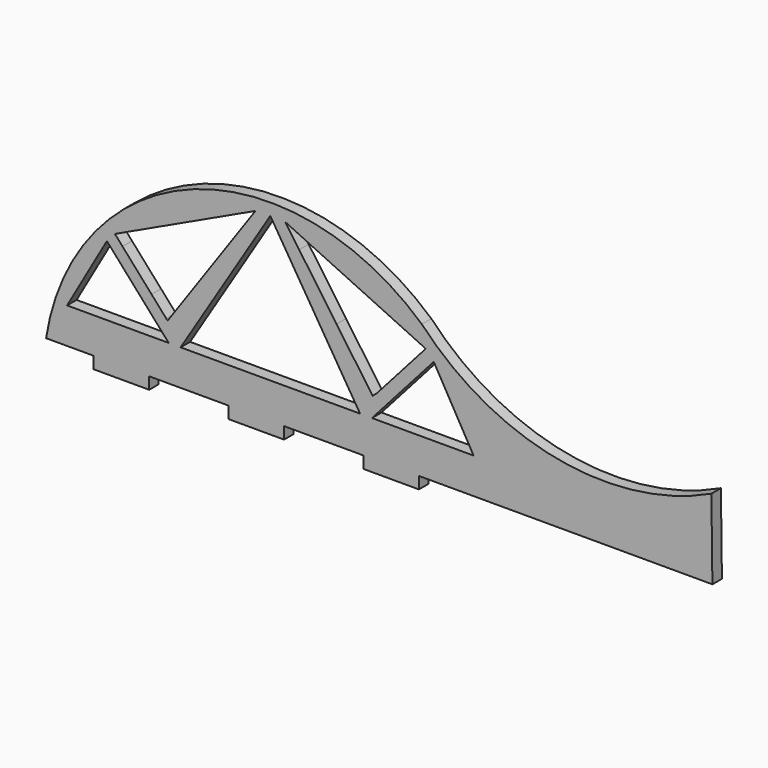
from build123d import *

# Parameters (mm, degrees)
F1_DEPTH = 19.05
F3_DEPTH = 25.4
F4_W     = 88.9
F4_H     = 19.05
F5_DEPTH = 19.05


with BuildPart() as f1:
    # F0 (on Front) → F1 (new body)
    with BuildSketch(Plane.XZ):
        with BuildLine():
            Line((754.452639, -127), (1219.750957, -127))
            Line((1219.750957, -127), (1218.132401, 0.307838))
            ThreePointArc((1218.132401, 0.307838), (971.957472, -30.969021), (754.452639, 88.496394))
            Line((754.452639, 88.496394), (754.452639, -127))
        make_face()
        with BuildLine():
            Line((152.950957, -127), (754.452639, -127))
            Line((754.452639, -127), (754.452639, 88.496394))
            ThreePointArc((754.452639, 88.496394), (389.486399, 159.988648), (152.950957, -127))
        make_face()
    extrude(amount=F1_DEPTH)

    # F2 (on face) → F3 (cut)
    with BuildSketch(Plane.XZ.offset(19.05)):
        Polygon((349.289218, -69.85), (250.3214, 41.61797), (186.588, -69.85), (250.3214, -69.85), (313.393829, -69.85), (314.054799, -69.85), align=None)
        Polygon((398.772179, 33.915376), (456.774034, 116.646986), (488.145278, 161.393719), (263.171888, 55.837033), (275.35156, 42.119006), (321.764452, -10.156076), (345.300821, -36.665212), (347.074358, -38.662755), (347.578352, -39.105525), (349.289218, -36.665212), align=None)
        Polygon((511.990437, 162.220746), (368.339218, -69.85), (655.641655, -69.85), align=None)
        Polygon((535.835596, 161.393719), (558.164751, 129.544273), (618.046186, 44.131702), (675.804029, -38.251859), (682.479221, -32.387854), (696.510871, -16.584994), (738.856518, 31.105928), (760.812477, 55.83338), align=None)
        Polygon((837.392874, -69.85), (773.662731, 41.614158), (674.691655, -69.85), align=None)
    extrude(amount=-F3_DEPTH, mode=Mode.SUBTRACT)

    # F4 (on face) → F5 (join)
    with BuildSketch(Plane.XZ.offset(19.05)):
        with Locations((705.400957, -136.525)):
            Rectangle(F4_W, F4_H)
        with Locations((273.600957, -136.525)):
            Rectangle(F4_W, F4_H)
        with Locations((489.500957, -136.525)):
            Rectangle(F4_W, F4_H)
    extrude(amount=-F5_DEPTH)


solid = f1.part
